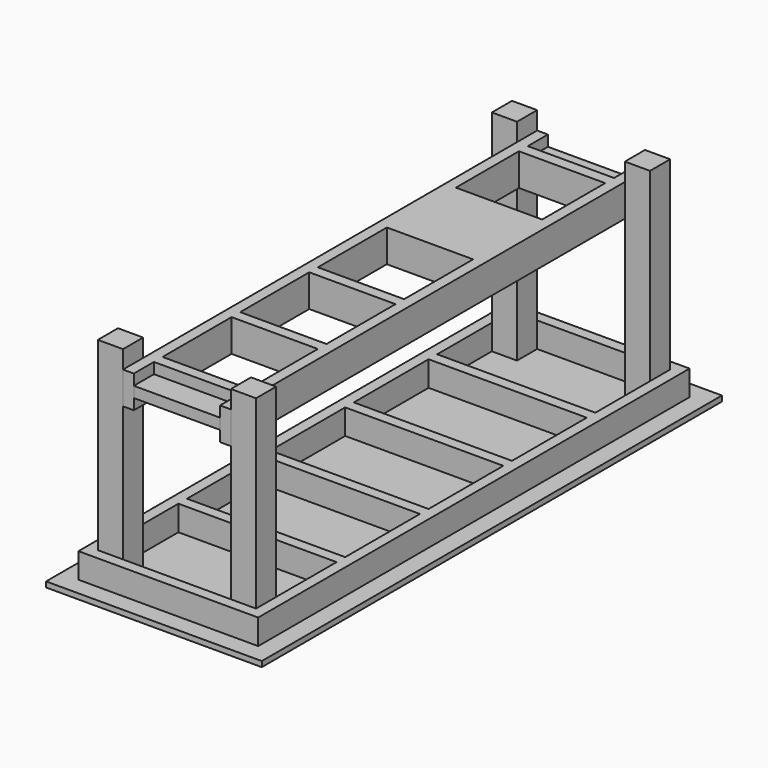
from build123d import *

# Parameters (mm, degrees)
F3_START = 584.2
F2_W     = 304.8
F2_H     = 39.2137783545
F2_H_2   = 266.7
F2_H_3   = 38.1
F3_DEPTH = 114.3
F0_W     = 762
F0_H     = 2032
F4_DEPTH = 19.05
F5_START = 19.05
F1_W     = 558.8
F1_H     = 38.1
F5_DEPTH = 88.9
F6_START = 19.05
F1_W_2   = 88.9
F1_H_2   = 88.9
F6_DEPTH = 742.95
F7_START = 622.3
F2_H_4   = 88.9
F7_DEPTH = 38.1


with BuildPart() as f3:
    # F2 (on face) → F3 (new body)
    with BuildSketch(Plane.XY.offset(F3_START)):
        Polygon((-151.5819020361, 1116.2670571821), (-189.6819020361, 1116.2670571821), (-189.6819020361, -712.5329428179), (-151.5819020361, -712.5329428179), (-151.5819020361, -623.6329428179), (-151.5819020361, -585.5329428179), (-151.5819020361, -280.7329428179), (-151.5819020361, -242.6329428179), (-151.5819020361, 62.1670571821), (-151.5819020361, 100.2670571821), (-151.5819020361, 405.0670571821), (-151.5819020361, 443.1670571821), (-151.5819020361, 709.8670571821), (-151.5819020361, 747.9670571821), (-151.5819020361, 988.1532788277), (-151.5819020361, 1027.3670571821), align=None)
        with Locations((0.8180979639, 1007.7601680049)):
            Rectangle(F2_W, F2_H)
        Polygon((191.3180979639, 1116.2670571821), (153.2180979639, 1116.2670571821), (153.2180979639, 1027.3670571821), (153.2180979639, 988.1532788277), (153.2180979639, 747.9670571821), (153.2180979639, 709.8670571821), (153.2180979639, 443.1670571821), (153.2180979639, 405.0670571821), (153.2180979639, 100.2670571821), (153.2180979639, 62.1670571821), (153.2180979639, -242.6329428179), (153.2180979639, -280.7329428179), (153.2180979639, -585.5329428179), (153.2180979639, -623.6329428179), (153.2180979639, -712.5329428179), (191.3180979639, -712.5329428179), align=None)
        with Locations((0.8180979639, 576.5170571821)):
            Rectangle(F2_W, F2_H_2)
        with Locations((0.8180979639, 424.1170571821)):
            Rectangle(F2_W, F2_H_3)
        with Locations((0.8180979639, 81.2170571821)):
            Rectangle(F2_W, F2_H_3)
        with Locations((0.8180979639, -261.6829428179)):
            Rectangle(F2_W, F2_H_3)
        with Locations((0.8180979639, -604.5829428179)):
            Rectangle(F2_W, F2_H_3)
    extrude(amount=F3_DEPTH)


with BuildPart() as f4:
    # F0 (on Top) → F4 (new body)
    with BuildSketch(Plane.XY):
        with Locations((0.8180979639, 201.8670571821)):
            Rectangle(F0_W, F0_H)
    extrude(amount=F4_DEPTH)


with BuildPart() as f5:
    # F1 (on face) → F5 (new body)
    with BuildSketch(Plane.XY.offset(F5_START)):
        Polygon((-278.5819020361, -750.6329428179), (-278.5819020361, -712.5329428179), (-278.5819020361, -623.6329428179), (-278.5819020361, -356.9329428179), (-278.5819020361, -318.8329428179), (-278.5819020361, 11.3670571821), (-278.5819020361, 49.4670571821), (-278.5819020361, 379.6670571821), (-278.5819020361, 417.7670571821), (-278.5819020361, 747.9670571821), (-278.5819020361, 786.0670571821), (-278.5819020361, 1027.3670571821), (-278.5819020361, 1116.2670571821), (-278.5819020361, 1154.3670571821), (-316.6819020361, 1154.3670571821), (-316.6819020361, -750.6329428179), align=None)
        Polygon((-189.6819020361, -712.5329428179), (-278.5819020361, -712.5329428179), (-278.5819020361, -750.6329428179), (280.2180979639, -750.6329428179), (280.2180979639, -712.5329428179), (191.3180979639, -712.5329428179), align=None)
        Polygon((280.2180979639, -712.5329428179), (280.2180979639, -750.6329428179), (318.3180979639, -750.6329428179), (318.3180979639, 1154.3670571821), (280.2180979639, 1154.3670571821), (280.2180979639, 1116.2670571821), (280.2180979639, 1027.3670571821), (280.2180979639, 786.0670571821), (280.2180979639, 747.9670571821), (280.2180979639, 417.7670571821), (280.2180979639, 379.6670571821), (280.2180979639, 49.4670571821), (280.2180979639, 11.3670571821), (280.2180979639, -318.8329428179), (280.2180979639, -356.9329428179), (280.2180979639, -623.6329428179), align=None)
        with Locations((0.8180979639, -337.8829428179)):
            Rectangle(F1_W, F1_H)
        with Locations((0.8180979639, 30.4170571821)):
            Rectangle(F1_W, F1_H)
        with Locations((0.8180979639, 398.7170571821)):
            Rectangle(F1_W, F1_H)
        with Locations((0.8180979639, 767.0170571821)):
            Rectangle(F1_W, F1_H)
        Polygon((280.2180979639, 1154.3670571821), (-278.5819020361, 1154.3670571821), (-278.5819020361, 1116.2670571821), (-189.6819020361, 1116.2670571821), (191.3180979639, 1116.2670571821), (280.2180979639, 1116.2670571821), align=None)
    extrude(amount=F5_DEPTH)


with BuildPart() as f6:
    # F1 (on face) → F6 (new body)
    with BuildSketch(Plane.XY.offset(F6_START)):
        with Locations((-234.1319020361, -668.0829428179)):
            Rectangle(F1_W_2, F1_H_2)
    extrude(amount=F6_DEPTH)


with BuildPart() as f6b:
    # F1 (on face) → F6, piece 2 (new body)
    with BuildSketch(Plane.XY.offset(F6_START)):
        with Locations((235.7680979639, -668.0829428179)):
            Rectangle(F1_W_2, F1_H_2)
    extrude(amount=F6_DEPTH)


with BuildPart() as f6c:
    # F1 (on face) → F6, piece 3 (new body)
    with BuildSketch(Plane.XY.offset(F6_START)):
        with Locations((235.7680979639, 1071.8170571821)):
            Rectangle(F1_W_2, F1_H_2)
    extrude(amount=F6_DEPTH)


with BuildPart() as f6d:
    # F1 (on face) → F6, piece 4 (new body)
    with BuildSketch(Plane.XY.offset(F6_START)):
        with Locations((-234.1319020361, 1071.8170571821)):
            Rectangle(F1_W_2, F1_H_2)
    extrude(amount=F6_DEPTH)


with BuildPart() as f7:
    # F2 (on face) → F7 (new body)
    with BuildSketch(Plane.XY.offset(F7_START)):
        with Locations((0.8180979639, -668.0829428179)):
            Rectangle(F2_W, F2_H_4)
    extrude(amount=F7_DEPTH)


with BuildPart() as f7b:
    # F2 (on face) → F7, piece 2 (new body)
    with BuildSketch(Plane.XY.offset(F7_START)):
        with Locations((0.8180979639, 1071.8170571821)):
            Rectangle(F2_W, F2_H_4)
    extrude(amount=F7_DEPTH)


solid = Compound([f3.part, f4.part, f5.part, f6.part, f6b.part, f6c.part, f6d.part, f7.part, f7b.part])
